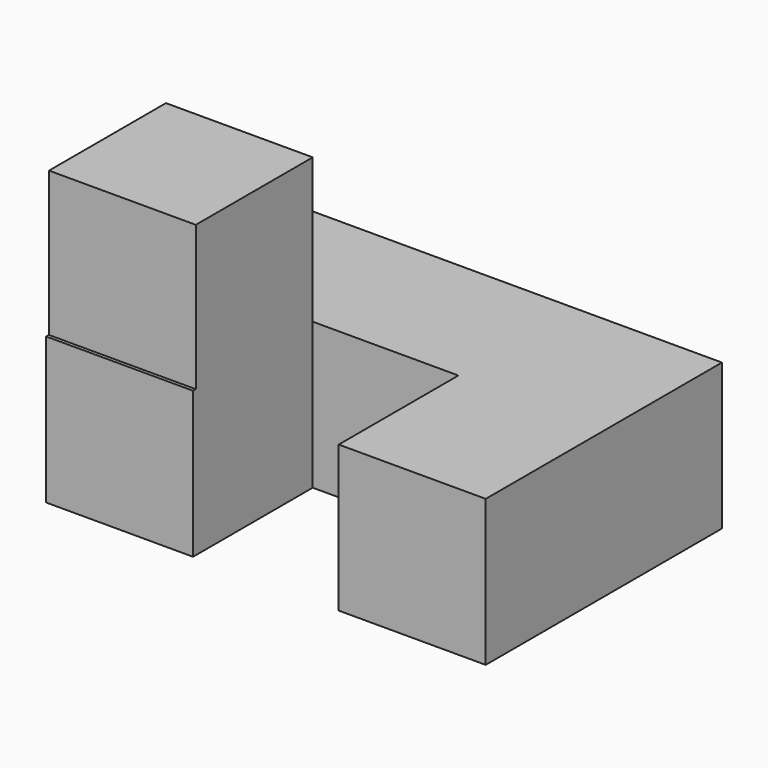
from build123d import *

# Parameters (mm, degrees)
F0_W     = 25.3138970584
F0_H     = 25.3138970584
F0_W_2   = 25.5399178714
F0_H_2   = 25.9919501841
F0_W_3   = 25.5399160087
F1_DEPTH = 25.4
F2_W     = 25.5080536008
F2_H     = 25.2275522798
F3_DEPTH = 25.4


with BuildPart() as f1:
    # F0 (on Top) → F1 (new body)
    with BuildSketch(Plane.XY):
        with Locations((12.6569485292, 12.6569485292)):
            Rectangle(F0_W, F0_H)
        with Locations((38.083855994, 12.6569485292)):
            Rectangle(F0_W_2, F0_H)
        with Locations((38.083855994, -12.9959750921)):
            Rectangle(F0_W_2, F0_H_2)
        with Locations((-12.7699580044, -12.9959750921)):
            Rectangle(F0_W_3, F0_H_2)
        with Locations((-12.7699580044, 12.6569485292)):
            Rectangle(F0_W_3, F0_H)
    extrude(amount=F1_DEPTH)

    # F2 (on Front) → F3 (join)
    with BuildSketch(Plane.XZ):
        with Locations((-12.7540268004, 37.929170765)):
            Rectangle(F2_W, F2_H)
    extrude(amount=F3_DEPTH)


solid = f1.part
